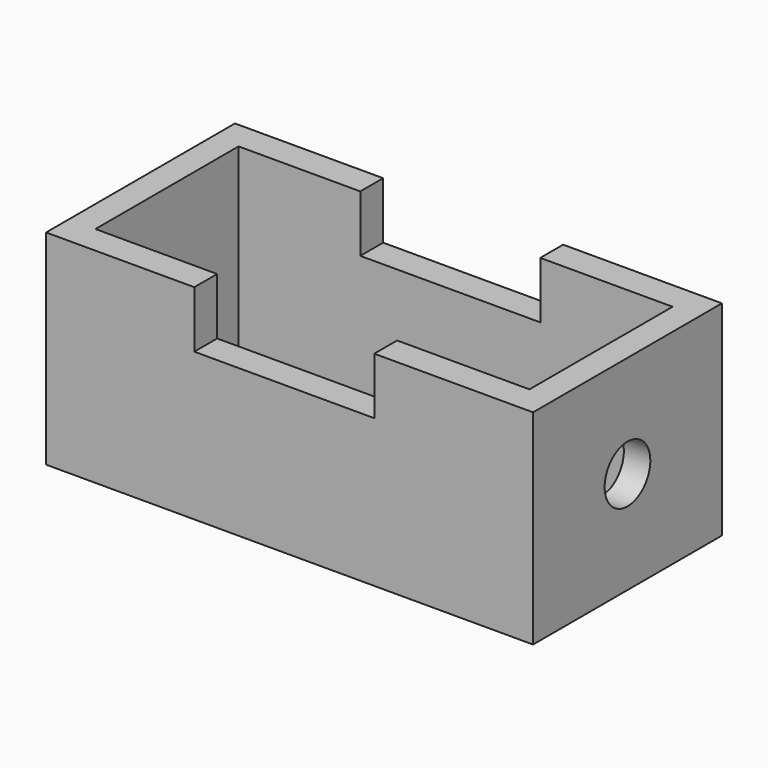
from build123d import *

# Parameters (mm, degrees)
F0_W     = 139.147832
F0_H     = 67.456446
F1_DEPTH = 58.42
F2_R     = 8.160902
F3_DEPTH = 139.148833
F4_W     = 124.023072
F4_H     = 51.121704
F5_DEPTH = 58.421
F6_W     = 51.424196
F6_H     = 16.221908
F7_DEPTH = 67.457447


with BuildPart() as f1:
    # F0 (on Top) → F1 (new body)
    with BuildSketch(Plane.XY):
        Rectangle(F0_W, F0_H)
    extrude(amount=F1_DEPTH)

    # F2 (on face) → F3 (cut, through all)
    with BuildSketch(Plane.YZ.offset(69.573916)):
        with Locations((0, 29.21)):
            Circle(F2_R)
    extrude(amount=-F3_DEPTH, mode=Mode.SUBTRACT)

    # F4 (on face) → F5 (cut, through all)
    with BuildSketch(Plane.XY.offset(58.42)):
        Rectangle(F4_W, F4_H)
    extrude(amount=-F5_DEPTH, mode=Mode.SUBTRACT)

    # F6 (on face) → F7 (cut, through all)
    with BuildSketch(Plane.XZ.offset(33.728223)):
        with Locations((-1.512476, 50.309046)):
            Rectangle(F6_W, F6_H)
    extrude(amount=-F7_DEPTH, mode=Mode.SUBTRACT)


solid = f1.part
